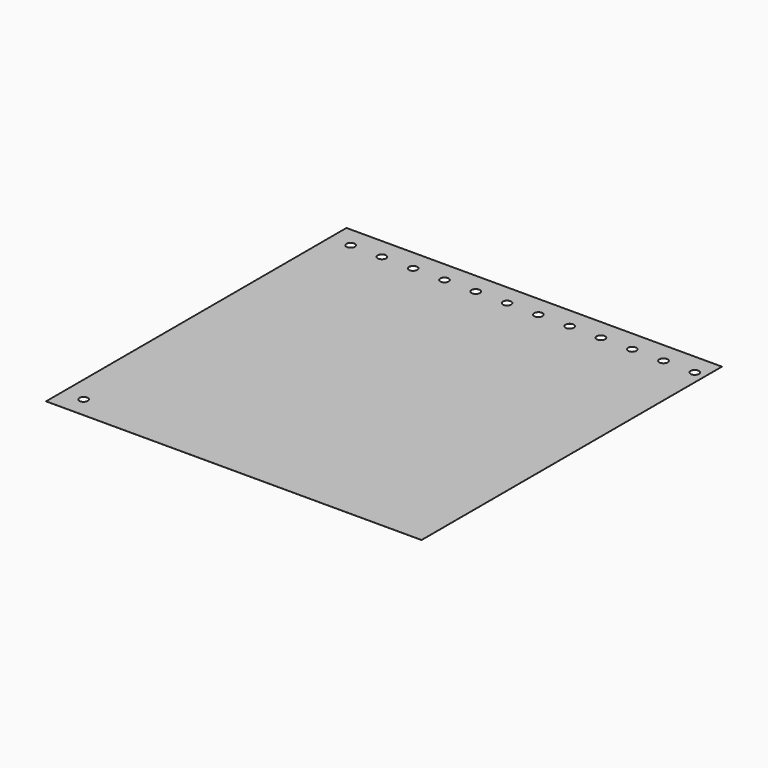
from build123d import *

# Parameters (mm, degrees)
F0_W     = 180
F0_H     = 180
F1_DEPTH = 0.025
F3_D     = 4
F4_R     = 2
F5_DEPTH = 0.025


with BuildPart() as f1:
    # F0 (on Top) → F1 (new body)
    with BuildSketch(Plane.XY):
        Rectangle(F0_W, F0_H)
    extrude(amount=F1_DEPTH)

    # F3 (through all)
    with Locations(Plane.XY.offset(0.025)):
        with Locations((-80, -80)):
            Hole(F3_D / 2)

    # F4 (on face) → F5 (cut, through all)
    with BuildSketch(Plane.XY.offset(0.025)):
        with Locations((-80, 80)):
            Circle(F4_R)
        with Locations((-65, 80)):
            Circle(F4_R)
        with Locations((-50, 80)):
            Circle(F4_R)
        with Locations((-35, 80)):
            Circle(F4_R)
        with Locations((-20, 80)):
            Circle(F4_R)
        with Locations((-5, 80)):
            Circle(F4_R)
        with Locations((10, 80)):
            Circle(F4_R)
        with Locations((25, 80)):
            Circle(F4_R)
        with Locations((40, 80)):
            Circle(F4_R)
        with Locations((55, 80)):
            Circle(F4_R)
        with Locations((70, 80)):
            Circle(F4_R)
        with Locations((85, 80)):
            Circle(F4_R)
    extrude(amount=-F5_DEPTH, mode=Mode.SUBTRACT)


solid = f1.part
